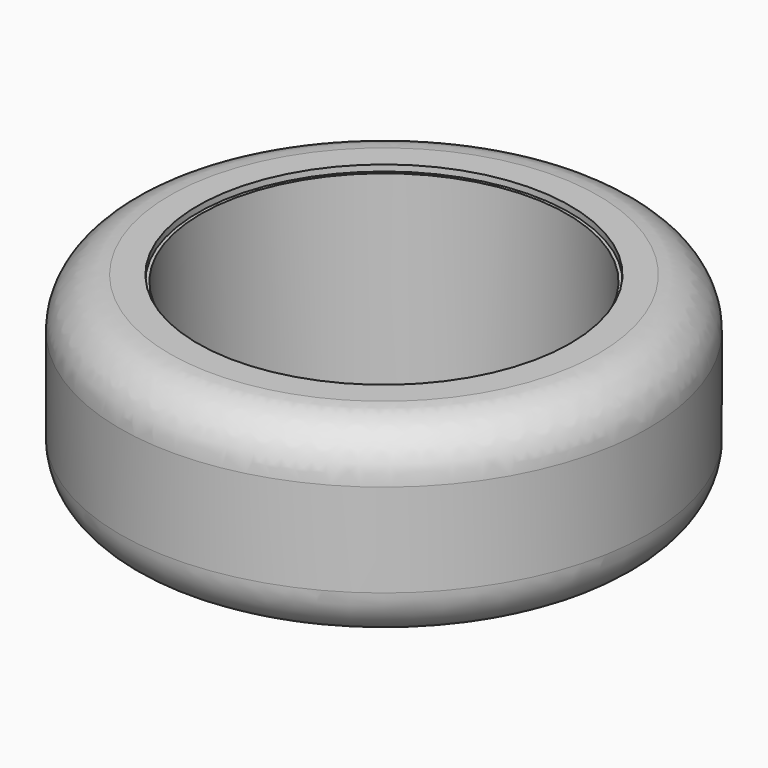
from build123d import *

# Parameters (mm, degrees)
F0_R          = 107.95
F0_R_2        = 74.93
F1_DEPTH      = 76.2
F1_DEPTH_BACK = 2.54
F2_R          = 76.2
F2_R_2        = 74.93
F3_DEPTH      = 2.54
F4_R          = 20.32


with BuildPart() as f1:
    # F0 (on Top) → F1 (new body, two sides)
    with BuildSketch(Plane.XY) as f1_sk:
        Circle(F0_R)
        Circle(F0_R_2, mode=Mode.SUBTRACT)
    extrude(amount=-F1_DEPTH)
    extrude(f1_sk.sketch, amount=F1_DEPTH_BACK)

    # F2 (on face) → F3 (cut)
    with BuildSketch(Plane.XY.offset(2.54)):
        Circle(F2_R)
        Circle(F2_R_2, mode=Mode.SUBTRACT)
    extrude(amount=-F3_DEPTH, mode=Mode.SUBTRACT)

    # F4
    f4_edges = [f1.edges().sort_by_distance(p)[0] for p in [
        (-107.95, 0, 2.54),
        (-107.95, 0, -76.2),
    ]]
    fillet(f4_edges, radius=F4_R)


solid = f1.part
